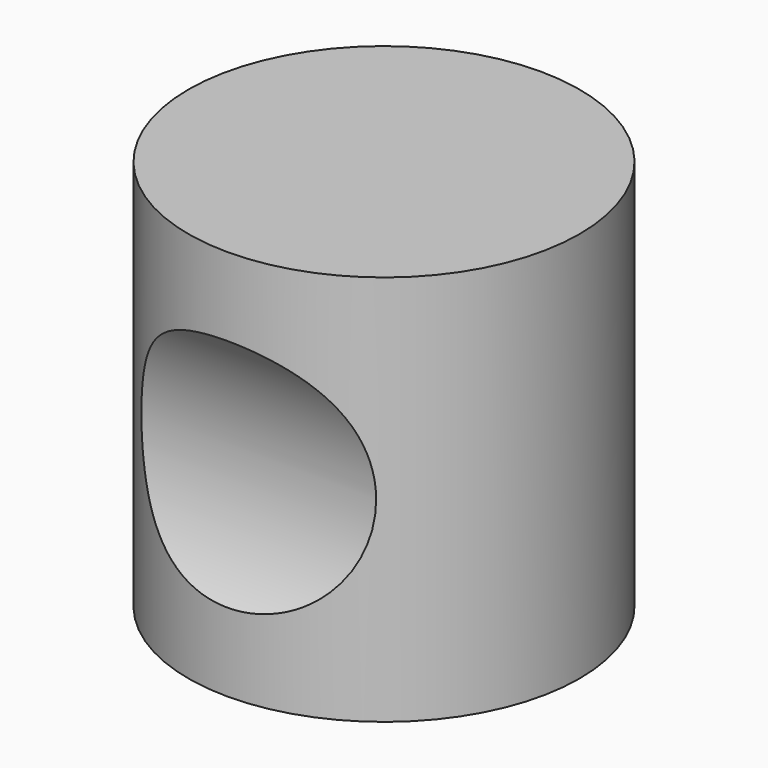
from build123d import *

# Parameters (mm, degrees)
F0_R      = 10
F1_DEPTH  = 20
F2_R      = 10
F3_DEPTH  = 50
F4_R      = 1.55
F5_DEPTH  = 2.6
F5_FACE_R = 1.55
F6_DEPTH  = 8


with BuildPart() as f1:
    # F0 (on Top) → F1 (new body)
    with BuildSketch(Plane.XY):
        Circle(F0_R)
    extrude(amount=F1_DEPTH)

    # F2 (on Right) → F3 (cut, symmetric)
    with BuildSketch(Plane.YZ):
        with Locations((18, 10)):
            Circle(F2_R)
        with Locations((-18, 10)):
            Circle(F2_R)
    extrude(amount=F3_DEPTH, both=True, mode=Mode.SUBTRACT)

    # F4 (on face) → F5 (cut)
    with BuildSketch(Plane(origin=(0, 0, 0), x_dir=(1, 0, 0), z_dir=(0, 0, -1))):
        Polygon((1.645448, 2.85), (-1.645448, 2.85), (-3.290897, 0), (-1.645448, -2.85), (1.645448, -2.85), (3.290897, 0), align=None)
        Circle(F4_R, mode=Mode.SUBTRACT)
    extrude(amount=-F5_DEPTH, mode=Mode.SUBTRACT)

    # F5_face (on face) → F6 (cut)
    with BuildSketch(Plane(origin=(0, 0, 0), x_dir=(1, 0, 0), z_dir=(0, 0, -1))):
        Circle(F5_FACE_R)
    extrude(amount=-F6_DEPTH, mode=Mode.SUBTRACT)


solid = f1.part
